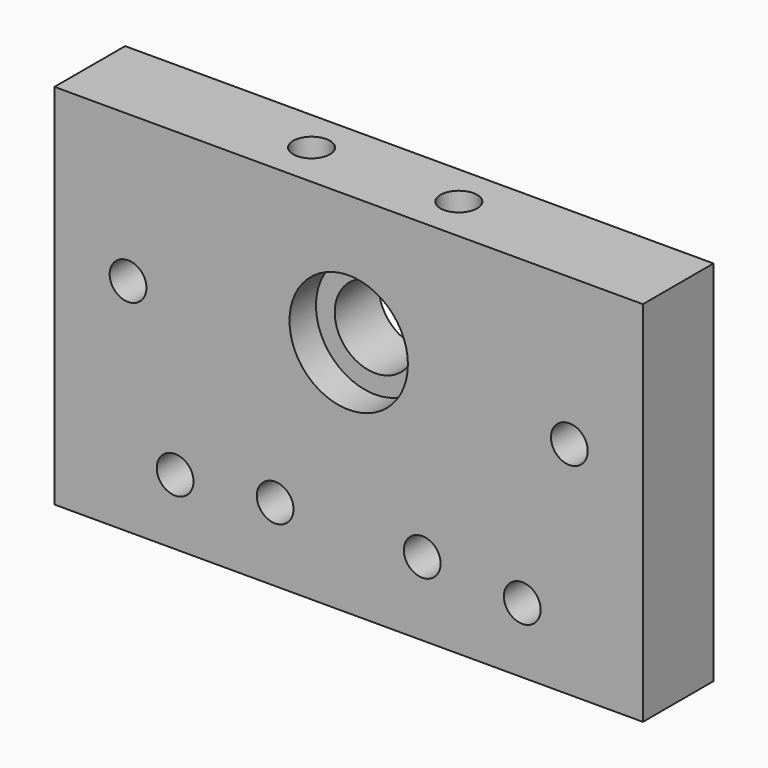
from build123d import *

# Parameters (mm, degrees)
SKETCH023_W     = 80
SKETCH023_H     = 50
SKETCH023_R     = 2.5
SKETCH023_R_2   = 5.5
PAD005_DEPTH    = 12
SKETCH024_R     = 2.5
POCKET015_DEPTH = 11
SKETCH025_R     = 8.05
POCKET016_DEPTH = 4.5
SKETCH026_R     = 4.6
SKETCH026_R_2   = 4.624594
SKETCH026_R_3   = 4.583454
SKETCH026_R_4   = 4.624604
POCKET017_DEPTH = 1.55


with BuildPart() as part:
    # Sketch023 → Pad005 (new body)
    with BuildSketch(Plane(origin=(178, 362, 200), x_dir=(1, 0, 0), z_dir=(0, -1, 0))):
        with Locations((40, 25)):
            Rectangle(SKETCH023_W, SKETCH023_H)
        with Locations((10, 30)):
            Circle(SKETCH023_R, mode=Mode.SUBTRACT)
        with Locations((30, 10)):
            Circle(SKETCH023_R, mode=Mode.SUBTRACT)
        with Locations((16.4, 8.9)):
            Circle(SKETCH023_R, mode=Mode.SUBTRACT)
        with Locations((50, 10)):
            Circle(SKETCH023_R, mode=Mode.SUBTRACT)
        with Locations((63.6, 8.9)):
            Circle(SKETCH023_R, mode=Mode.SUBTRACT)
        with Locations((70, 30)):
            Circle(SKETCH023_R, mode=Mode.SUBTRACT)
        with Locations((40, 32.4)):
            Circle(SKETCH023_R_2, mode=Mode.SUBTRACT)
    extrude(amount=PAD005_DEPTH)

    # Sketch024 → Pocket015 (cut)
    with BuildSketch(Plane(origin=(178, 362, 250), x_dir=(-1, 0, 0), z_dir=(0, 0, 1))):
        with Locations((-30.033846, 5.850095)):
            Circle(SKETCH024_R)
        with Locations((-50.003807, 5.788844)):
            Circle(SKETCH024_R)
    extrude(amount=-POCKET015_DEPTH, mode=Mode.SUBTRACT)

    # Sketch025 → Pocket016 (cut)
    with BuildSketch(Plane(origin=(178, 350, 200), x_dir=(1, 0, 0), z_dir=(0, -1, 0))):
        with Locations((40, 32.4)):
            Circle(SKETCH025_R)
    extrude(amount=-POCKET016_DEPTH, mode=Mode.SUBTRACT)

    # Sketch026 → Pocket017 (cut)
    with BuildSketch(Plane(origin=(178, 362, 200), x_dir=(1, 0, 0), z_dir=(0, 1, 0))):
        with Locations((10, -30)):
            Circle(SKETCH026_R)
        with Locations((70, -30)):
            Circle(SKETCH026_R_2)
        with Locations((30, -10)):
            Circle(SKETCH026_R_3)
        with Locations((50, -10)):
            Circle(SKETCH026_R_4)
    extrude(amount=-POCKET017_DEPTH, mode=Mode.SUBTRACT)


solid = part.part
